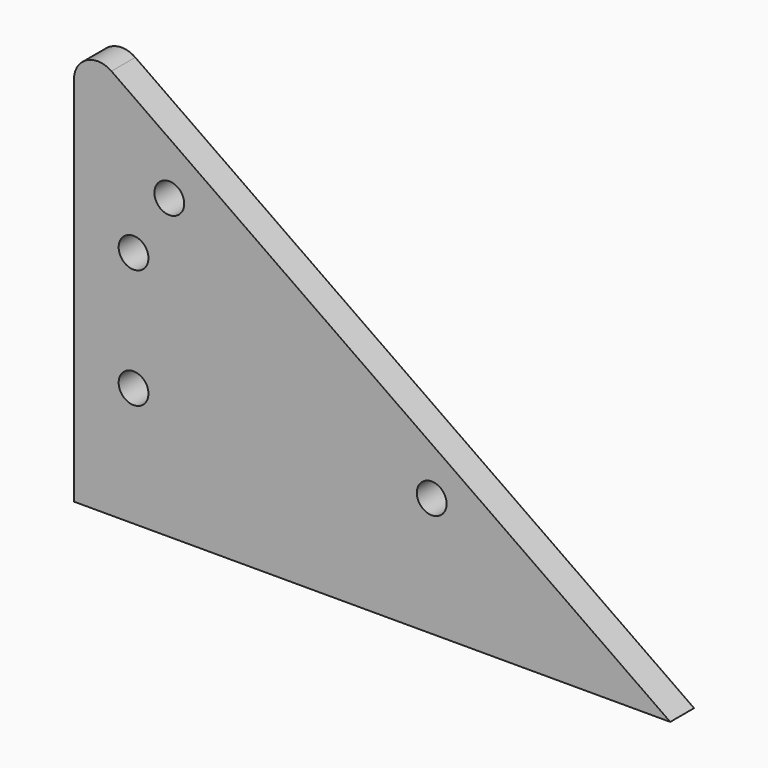
from build123d import *

# Parameters (mm, degrees)
F0_R     = 3.175
F1_DEPTH = 6.35


with BuildPart() as f1:
    # F0 (on Front) → F1 (new body)
    with BuildSketch(Plane.XZ):
        with BuildLine():
            ThreePointArc((7.993189, 83.304768), (2.734003, 83.648921), (0, 79.14307))
            Line((0, 79.14307), (0, 0))
            Line((0, 0), (127, 0))
            Line((127, 0), (7.993189, 83.304768))
        make_face()
        with Locations((12.7, 25.4)):
            Circle(F0_R, mode=Mode.SUBTRACT)
        with Locations((76.2, 25.4)):
            Circle(F0_R, mode=Mode.SUBTRACT)
        with Locations((12.7, 50.8)):
            Circle(F0_R, mode=Mode.SUBTRACT)
        with Locations((20.32, 63.5)):
            Circle(F0_R, mode=Mode.SUBTRACT)
    extrude(amount=F1_DEPTH)


solid = f1.part
